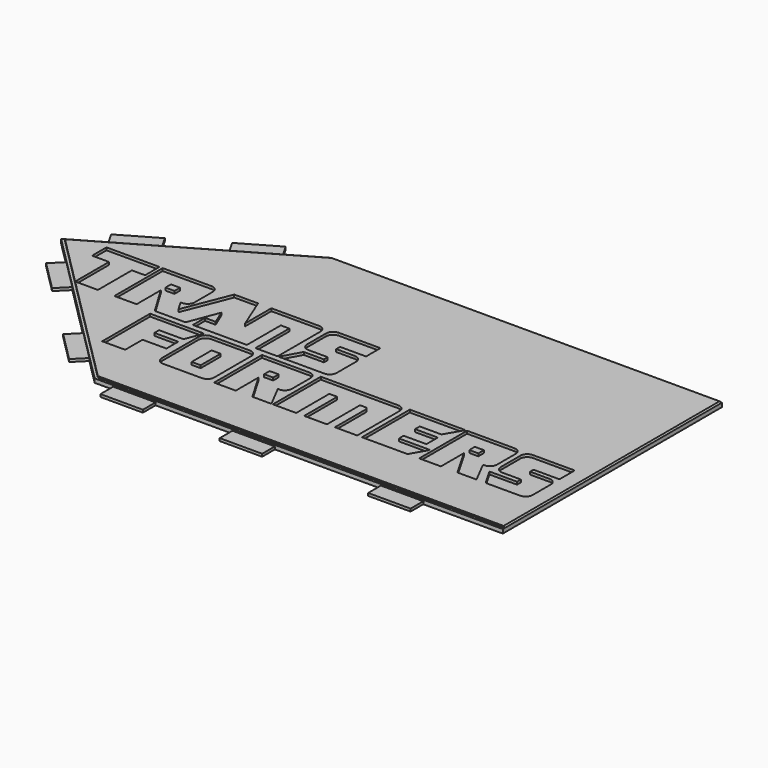
from build123d import *

# Parameters (mm, degrees)
PAD_DEPTH       = 1
POCKET_DEPTH    = 0.25
CHAMFER_SIZE    = 0.25
SKETCH003_W     = 8
SKETCH003_H     = 3
PAD001_DEPTH    = 0.5
SKETCH004_W     = 1.7
SKETCH004_H     = 1.3
SKETCH004_H_2   = 4.7
POCKET001_DEPTH = 0.5


with BuildPart() as part:
    # Sketch001 → Pad (new body)
    with BuildSketch(Plane.XY):
        Polygon((52, 58.333333), (129, 58.333333), (129, 110), (55, 110), (20.3427218622, 89.9906111378), align=None)
    extrude(amount=PAD_DEPTH)

    # Sketch002 (on Face7 of Pad) → Pocket (cut)
    with BuildSketch(Plane.XY.offset(1)):
        Polygon((55, 110), (56, 110), (21.1570350021, 89.8834047791), (52.2071067812, 58.833333), (129, 58.833333), (129, 58.333333), (52, 58.333333), (20.342722, 89.990611), align=None)
    extrude(amount=-POCKET_DEPTH, mode=Mode.SUBTRACT)

    # Chamfer
    chamfer_edges = [part.edges().sort_by_distance(p)[0] for p in [
        (129, 84.416667, 1),
        (92.5, 110, 1),
    ]]
    chamfer(chamfer_edges, length=CHAMFER_SIZE)

    # Sketch003 (on Face4 of Chamfer) → Pad001 (join)
    with BuildSketch(Plane(origin=(0, 0, 0), x_dir=(1, 0, 0), z_dir=(0, 0, -1))):
        with Locations((110, -56.833333)):
            Rectangle(SKETCH003_W, SKETCH003_H)
        with Locations((82, -56.833333)):
            Rectangle(SKETCH003_W, SKETCH003_H)
        with Locations((59.5, -56.833333)):
            Rectangle(SKETCH003_W, SKETCH003_H)
        Polygon((47.0502525317, -63.2830804683), (41.3933982822, -68.9399347178), (39.2720779386, -66.8186143742), (44.9289321881, -61.1617601247), align=None)
        Polygon((48.9378221735, -106.5), (47.4378221735, -109.0980762114), (40.5096189432, -105.0980762114), (42.0096189432, -102.5), align=None)
        Polygon((26.4048996887, -93.4906111378), (33.333102919, -97.4906111378), (31.833102919, -100.0886873491), (24.9048996887, -96.0886873491), align=None)
        Polygon((30.94932358, -79.38400942), (25.2924693305, -85.0408636695), (23.171148987, -82.9195433259), (28.8280032365, -77.2626890764), align=None)
    extrude(amount=-PAD001_DEPTH)

    # Sketch004 (on Face9 of Pad001) → Pocket001 (cut)
    with BuildSketch(Plane.XY.offset(1)):
        Polygon((30.7570350021, 80.2834047791), (30.7570350021, 88.2834047791), (27.5570350021, 88.2834047791), (27.5570350021, 91.6834047791), (37.5570350021, 91.6834047791), (37.5570350021, 88.2834047791), (35.0570350021, 88.2834047791), (35.0570350021, 80.2834047791), align=None)
        with BuildLine():
            Line((38.1570350021, 80.2834047791), (38.1570350021, 91.6834047791))
            Line((38.1570350021, 91.6834047791), (47.3570350021, 91.6834047791))
            ThreePointArc((48.6570350021, 90.3834047791), (48.2762738176, 91.3026435946), (47.3570350021, 91.6834047791))
            Line((48.6570350021, 90.3834047791), (48.6570350021, 86.0834047791))
            ThreePointArc((47.3570350021, 84.7834047791), (48.2762738176, 85.1641659636), (48.6570350021, 86.0834047791))
            Line((47.3570350021, 84.7834047791), (47.0570350021, 84.7834047791))
            Line((47.0570350021, 84.7834047791), (48.1695396285, 82.8854233629))
            Line((48.1695396285, 82.8854233629), (51.6570350021, 91.6834047791))
            Line((51.6570350021, 91.6834047791), (56.1570350021, 91.6834047791))
            Line((56.1570350021, 91.6834047791), (58.6570350021, 85.4956876456))
            Line((58.6570350021, 85.4956876456), (58.6570350021, 91.6834047791))
            Line((58.6570350021, 91.6834047791), (67.6570350021, 91.6834047791))
            ThreePointArc((68.9570350021, 90.3834047791), (68.5762738176, 91.3026435946), (67.6570350021, 91.6834047791))
            Line((68.9570350021, 90.3834047791), (68.9570350021, 80.2834047791))
            Line((68.9570350021, 80.2834047791), (64.7570350021, 80.2834047791))
            Line((64.7570350021, 80.2834047791), (64.7570350021, 88.2834047791))
            Line((64.7570350021, 88.2834047791), (63.1570350021, 88.2834047791))
            Line((63.1570350021, 88.2834047791), (63.1570350021, 80.2834047791))
            Line((63.1570350021, 80.2834047791), (52.9570350021, 80.2834047791))
            Line((52.9570350021, 80.2834047791), (52.9570350021, 83.1834047791))
            Line((52.9570350021, 83.1834047791), (54.9570350021, 83.1834047791))
            Line((54.9570350021, 83.1834047791), (53.7706955514, 85.9782453807))
            Line((53.7706955514, 85.9782453807), (51.5846510592, 80.2834047791))
            Line((51.5846510592, 80.2834047791), (45.7819405306, 80.2834047791))
            Line((45.7819405306, 80.2834047791), (42.3570350021, 85.9834047791))
            Line((42.3570350021, 85.9834047791), (42.3570350021, 80.2834047791))
            Line((42.3570350021, 80.2834047791), (38.1570350021, 80.2834047791))
        make_face()
        with Locations((43.2070350021, 87.7334047791)):
            Rectangle(SKETCH004_W, SKETCH004_H, mode=Mode.SUBTRACT)
        with BuildLine():
            Line((69.9570350021, 90.4818836077), (69.9570350021, 85.9818836077))
            ThreePointArc((69.9570350021, 85.9818836077), (70.3377961866, 85.0626447921), (71.2570350021, 84.6818836077))
            Line((71.2570350021, 84.6818836077), (74.8962734831, 84.6818836077))
            Line((74.8962734831, 84.6818836077), (74.8962734831, 83.7818836077))
            Line((74.8962734831, 83.7818836077), (71.0962734831, 83.7818836077))
            Line((71.0962734831, 83.7818836077), (69.1570350021, 80.2834047791))
            Line((69.1570350021, 80.2834047791), (77.7570350021, 80.2834047791))
            ThreePointArc((77.7570350021, 80.2834047791), (78.6762738176, 80.6641659636), (79.0570350021, 81.5834047791))
            Line((79.0570350021, 81.5834047791), (79.0570350021, 86.1818836077))
            ThreePointArc((79.0570350021, 86.1818836077), (78.6762738176, 87.1011224232), (77.7570350021, 87.4818836077))
            Line((77.7570350021, 87.4818836077), (74.2570350021, 87.4818836077))
            Line((74.2570350021, 87.4818836077), (74.2570350021, 88.3818836077))
            Line((74.2570350021, 88.3818836077), (79.1570350021, 88.3818836077))
            Line((79.1570350021, 88.3818836077), (79.1570350021, 91.7818836077))
            Line((79.1570350021, 91.7818836077), (71.2570350021, 91.7818836077))
            ThreePointArc((71.2570350021, 91.7818836077), (70.3377961866, 91.4011224232), (69.9570350021, 90.4818836077))
        make_face()
        Polygon((45.7819405306, 79.1834047791), (45.7819405306, 67.8834047791), (50.1151892149, 67.8834047791), (50.1151892149, 71.9834047791), (54.6151892149, 71.9834047791), (54.6151892149, 74.7834047791), (50.1151892149, 74.7834047791), (50.1151892149, 75.8834047791), (54.7151892149, 75.8834047791), (55.9819405306, 79.1834047791), align=None)
        with BuildLine():
            Line((55.9819405306, 77.8834047791), (55.9819405306, 69.1834047791))
            ThreePointArc((55.9819405306, 69.1834047791), (56.362701715, 68.2641659636), (57.2819405306, 67.8834047791))
            Line((57.2819405306, 67.8834047791), (64.5819405306, 67.8834047791))
            ThreePointArc((64.5819405306, 67.8834047791), (65.5011793461, 68.2641659636), (65.8819405306, 69.1834047791))
            Line((65.8819405306, 69.1834047791), (65.8819405306, 77.8834047791))
            ThreePointArc((65.8819405306, 77.8834047791), (65.5011793461, 78.8026435946), (64.5819405306, 79.1834047791))
            Line((64.5819405306, 79.1834047791), (57.2819405306, 79.1834047791))
            ThreePointArc((57.2819405306, 79.1834047791), (56.362701715, 78.8026435946), (55.9819405306, 77.8834047791))
        make_face()
        with Locations((61.0319405306, 73.3334047791)):
            Rectangle(SKETCH004_W, SKETCH004_H_2, mode=Mode.SUBTRACT)
        with BuildLine():
            Line((66.8819405306, 79.1834047791), (66.8819405306, 67.8834047791))
            Line((66.8819405306, 67.8834047791), (70.9819405306, 67.8834047791))
            Line((70.9819405306, 67.8834047791), (70.9819405306, 73.2834047791))
            Line((70.9819405306, 73.2834047791), (74.0996319842, 67.8834047791))
            Line((74.0996319842, 67.8834047791), (77.6996319842, 67.8834047791))
            Line((77.6996319842, 67.8834047791), (75.4819405306, 72.1834047791))
            Line((75.7819405306, 72.1834047791), (75.4819405306, 72.1834047791))
            ThreePointArc((75.7819405306, 72.1834047791), (76.7011793461, 72.5641659636), (77.0819405306, 73.4834047791))
            Line((77.0819405306, 73.4834047791), (77.0819405306, 77.8834047791))
            ThreePointArc((77.0819405306, 77.8834047791), (76.7011793461, 78.8026435946), (75.7819405306, 79.1834047791))
            Line((75.7819405306, 79.1834047791), (66.8819405306, 79.1834047791))
        make_face()
        with Locations((71.8319405306, 75.2334047791)):
            Rectangle(SKETCH004_W, SKETCH004_H, mode=Mode.SUBTRACT)
        with BuildLine():
            Line((77.9819405306, 79.1834071758), (77.9819405306, 67.8834047791))
            Line((77.9819405306, 67.8834047791), (82.3819405306, 67.8834047791))
            Line((82.3819405306, 67.8834047791), (82.3819405306, 75.6834047791))
            Line((82.3819405306, 75.6834047791), (83.8819405306, 75.6834047791))
            Line((83.8819405306, 75.6834047791), (83.8819405306, 67.8834047791))
            Line((83.8819405306, 67.8834047791), (88.1819405306, 67.8834047791))
            Line((88.1819405306, 67.8834047791), (88.1819405306, 75.6834047791))
            Line((88.1819405306, 75.6834047791), (89.1819405306, 75.6834047791))
            ThreePointArc((89.6819405306, 75.1834047791), (89.5354939211, 75.5369581697), (89.1819405306, 75.6834047791))
            Line((89.6819405306, 75.1834047791), (89.6819405306, 67.8834047791))
            Line((89.6819405306, 67.8834047791), (93.8819405306, 67.8834047791))
            Line((93.8819405306, 67.8834047791), (93.8819405306, 77.8834071758))
            ThreePointArc((93.8819405306, 77.8834071758), (93.5011793461, 78.8026459913), (92.5819405306, 79.1834071758))
            Line((77.9819405306, 79.1834071758), (92.5819405306, 79.1834071758))
        make_face()
        Polygon((94.7819405306, 79.1834071758), (94.7819405306, 67.8834047791), (103.3819405306, 67.8834047791), (105.1769836371, 70.9925106414), (99.2819405306, 70.9925106414), (99.2819405306, 72.0925106414), (103.5819405306, 72.0925106414), (103.5819405306, 74.7925106414), (99.2819405306, 74.7925106414), (99.2819405306, 75.8925106414), (103.3819405306, 75.8925106414), (105.2819405306, 79.1834071758), align=None)
        with BuildLine():
            Line((105.5819405306, 67.8834047791), (109.6819405306, 67.8834047791))
            Line((109.6819405306, 67.8834047791), (109.6819405306, 73.2834047791))
            Line((109.6819405306, 73.2834047791), (112.7996319842, 67.8834047791))
            Line((112.7996319842, 67.8834047791), (116.3996319842, 67.8834047791))
            Line((116.3996319842, 67.8834047791), (114.1819405306, 72.1834071758))
            Line((114.1819405306, 72.1834071758), (114.4819405306, 72.1834071758))
            ThreePointArc((114.4819405306, 72.1834071758), (115.4011793461, 72.5641683602), (115.7819405306, 73.4834071758))
            Line((115.7819405306, 77.8834071758), (115.7819405306, 73.4834071758))
            ThreePointArc((115.7819405306, 77.8834071758), (115.4011793461, 78.8026459913), (114.4819405306, 79.1834071758))
            Line((105.5819405306, 79.1834071758), (114.4819405306, 79.1834071758))
            Line((105.5819405306, 67.8834047791), (105.5819405306, 79.1834071758))
        make_face()
        with Locations((110.5319405306, 75.2334047791)):
            Rectangle(SKETCH004_W, SKETCH004_H, mode=Mode.SUBTRACT)
        with BuildLine():
            Line((116.6819405306, 77.8834071758), (116.6819405306, 73.2834071758))
            ThreePointArc((116.6819405306, 73.2834071758), (117.062701715, 72.3641683602), (117.9819405306, 71.9834071758))
            Line((117.9819405306, 71.9834071758), (121.4819405306, 71.9834071758))
            Line((121.4819405306, 71.9834071758), (121.4819405306, 71.0834071758))
            Line((121.4819405306, 71.0834071758), (116.2819405306, 71.0834071758))
            Line((116.2819405306, 71.0834071758), (118.1294627757, 67.8834047791))
            Line((118.1294627757, 67.8834047791), (124.6294627757, 67.8834047791))
            ThreePointArc((124.6294627757, 67.8834047791), (125.5487015912, 68.2641659636), (125.9294627757, 69.1834047791))
            Line((125.9294627757, 73.4834071758), (125.9294627757, 69.1834047791))
            ThreePointArc((125.9294627757, 73.4834071758), (125.5487015912, 74.4026459913), (124.6294627757, 74.7834071758))
            Line((120.9819405306, 74.7834071758), (124.6294627757, 74.7834071758))
            Line((120.9819405306, 75.5834071758), (120.9819405306, 74.7834071758))
            Line((125.8819405306, 75.5834071758), (120.9819405306, 75.5834071758))
            Line((125.8819405306, 79.1834071758), (125.8819405306, 75.5834071758))
            Line((117.9819405306, 79.1834071758), (125.8819405306, 79.1834071758))
            ThreePointArc((117.9819405306, 79.1834071758), (117.062701715, 78.8026459913), (116.6819405306, 77.8834071758))
        make_face()
    extrude(amount=-POCKET001_DEPTH, mode=Mode.SUBTRACT)


with BuildPart() as part_1:
    # Body001 placement: moved
    add(part.part.moved(Location((0, 0, -13))))


solid = part_1.part
